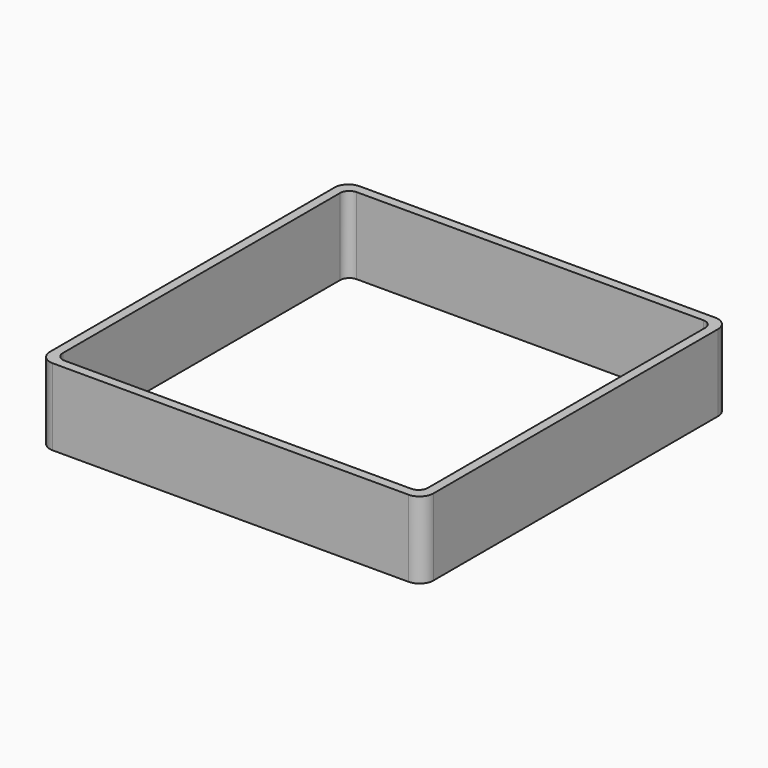
from build123d import *

# Parameters (mm, degrees)
EXTRUDE_DEPTH = 50


with BuildPart() as part:
    # Sketch → Extrude (new body)
    with BuildSketch(Plane.XY):
        with BuildLine():
            Line((-116, 125), (116, 125))
            ThreePointArc((125, 116), (122.363961, 122.363961), (116, 125))
            Line((125, 116), (125, -116))
            ThreePointArc((116, -125), (122.363961, -122.363961), (125, -116))
            Line((116, -125), (-116, -125))
            ThreePointArc((-125, -116), (-122.363961, -122.363961), (-116, -125))
            Line((-125, -116), (-125, 116))
            ThreePointArc((-116, 125), (-122.363961, 122.363961), (-125, 116))
        make_face()
        with BuildLine():
            Line((-113, 119), (113, 119))
            ThreePointArc((119, 113), (117.242641, 117.242641), (113, 119))
            Line((119, 113), (119, -113))
            ThreePointArc((113, -119), (117.242641, -117.242641), (119, -113))
            Line((113, -119), (-113, -119))
            ThreePointArc((-119, -113), (-117.242641, -117.242641), (-113, -119))
            Line((-119, -113), (-119, 113))
            ThreePointArc((-113, 119), (-117.242641, 117.242641), (-119, 113))
        make_face(mode=Mode.SUBTRACT)
    extrude(amount=EXTRUDE_DEPTH)


solid = part.part
